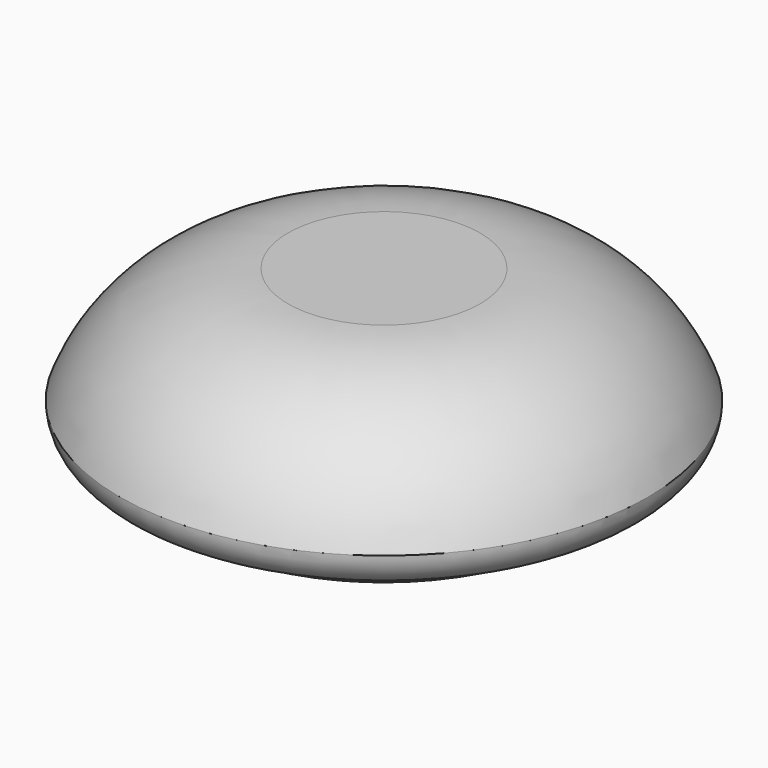
from build123d import *


with BuildPart() as f1:
    # F0 (on Front) → F1 (revolve)
    with BuildSketch(Plane.XZ):
        with BuildLine():
            Line((8, 0), (0, 0))
            Line((0, 0), (0, -15))
            Line((0, -15), (13, -15))
            ThreePointArc((13, -15), (16.080905, -14.647429), (18.361388, -12.546076))
            ThreePointArc((18.361388, -12.546076), (20.882042, -11.951054), (22, -9.614835))
            ThreePointArc((22, -9.614835), (16.491835, -2.635182), (8, 0))
        make_face()
        with BuildLine():
            Line((13, -15), (0, -15))
            ThreePointArc((0, -15), (6.5, -16.146429), (13, -15))
        make_face()
    revolve(axis=Axis((0, 0, -7.5), (0, 0, 1)))


solid = f1.part
